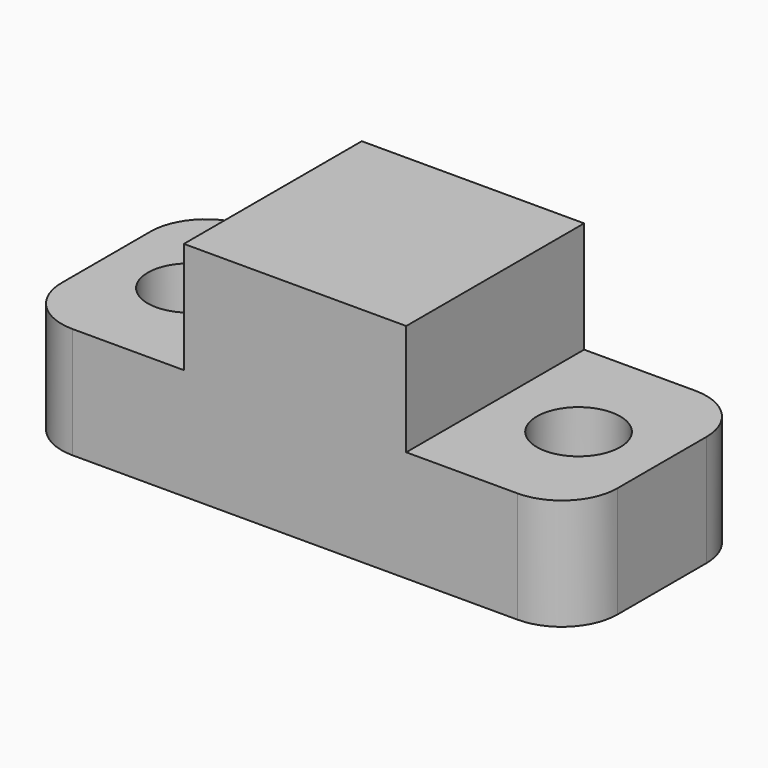
from build123d import *

# Parameters (mm, degrees)
F1_DEPTH = 25.4
F3_D     = 9.525
F4_R     = 6.35


with BuildPart() as f1:
    # F0 (on Front) → F1 (new body)
    with BuildSketch(Plane.XZ):
        Polygon((0, 0), (-19.05, 0), (-19.05, -12.7), (12.7, -12.7), (12.7, 0), (12.7, 12.7), (0, 12.7), align=None)
    extrude(amount=-F1_DEPTH)

    # F3 (through all)
    with Locations(Plane.XY):
        with Locations((-9.525, 12.7)):
            Hole(F3_D / 2)

    # F4
    f4_edges = [f1.edges().sort_by_distance(p)[0] for p in [
        (-19.05, 25.4, -6.35),
        (-19.05, 0, -6.35),
    ]]
    fillet(f4_edges, radius=F4_R)

    # F5: F1 across face


with BuildPart() as f1_1:
    add(f1.part)
    add(f1.part.mirror(Plane(origin=(12.7, 12.7, 0), x_dir=(0, 1, 0), z_dir=(1, 0, 0))))


solid = f1_1.part
